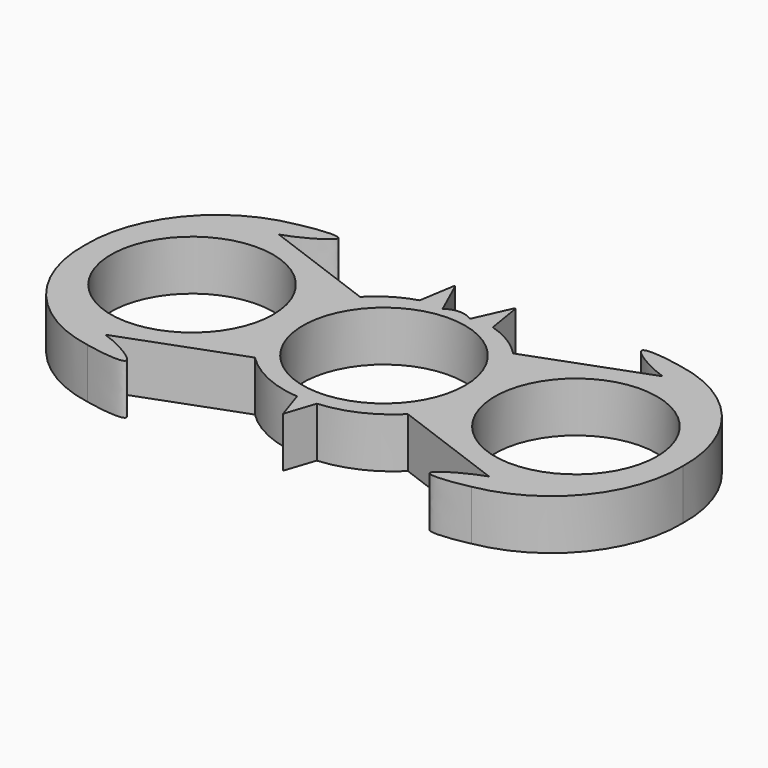
from build123d import *

# Parameters (mm, degrees)
F0_R     = 11.3175
F1_DEPTH = 7


with BuildPart() as f1:
    # F0 (on Top) → F1 (new body)
    with BuildSketch(Plane.XY):
        with BuildLine():
            Line((-4.290395086, 17.5929758698), (-5.0968573363, 12.6047609374))
            ThreePointArc((-5.0968573363, 12.6047609374), (-8.1126471986, 11.2557929743), (-10.6780268252, 9.1740796342))
            Line((-10.6780268252, 9.1740796342), (-26.7856623977, 15.1404356584))
            add(Edge.make_bspline(
                [(-26.7856623977, 18.2235073298), (-24.4614947587, 18.7465790659), (-17.7473041348, 19.5727238501), (-24.8232074873, 15.7483036), (-26.7856623977, 15.1404356584)],
                knots=[0, 0, 0, 0, 0.4812154975, 1, 1, 1, 1], degree=3))
            ThreePointArc((-26.7856623977, 18.2235073298), (-37.6467894522, 11.8899380245), (-41.7342770438, 0))
            ThreePointArc((-41.7342770438, 0), (-37.6467894522, -11.8899380245), (-26.7856623977, -18.2235073298))
            add(Edge.make_bspline(
                [(-26.7856623977, -18.2235073298), (-24.4614947587, -18.7465790659), (-17.7473041348, -19.5727238501), (-24.8232074873, -15.7483036), (-26.7856623977, -15.1404356584)],
                knots=[0, 0, 0, 0, 0.4812154975, 1, 1, 1, 1], degree=3))
            Line((-26.7856623977, -15.1404356584), (-10.6780268252, -9.1740796342))
            ThreePointArc((-10.6780268252, -9.1740796342), (-6.4090636856, -12.1387429064), (-1.3792073587, -13.447872363))
            Line((-1.3792073587, -13.447872363), (0, -17.6072642207))
            Line((0, -17.6072642207), (1.3792073587, -13.447872363))
            ThreePointArc((1.3792073587, -13.447872363), (6.4090636856, -12.1387429064), (10.6780268252, -9.1740796342))
            Line((10.6780268252, -9.1740796342), (26.7856623977, -15.1404356584))
            add(Edge.make_bspline(
                [(26.7856623977, -18.2235073298), (24.4614947587, -18.7465790659), (17.7473041348, -19.5727238501), (24.8232074873, -15.7483036), (26.7856623977, -15.1404356584)],
                knots=[0, 0, 0, 0, 0.4812154975, 1, 1, 1, 1], degree=3))
            ThreePointArc((26.7856623977, -18.2235073298), (37.6467894522, -11.8899380245), (41.7342770438, 0))
            ThreePointArc((41.7342770438, 0), (37.6467894522, 11.8899380245), (26.7856623977, 18.2235073298))
            add(Edge.make_bspline(
                [(26.7856623977, 18.2235073298), (24.4614947587, 18.7465790659), (17.7473041348, 19.5727238501), (24.8232074873, 15.7483036), (26.7856623977, 15.1404356584)],
                knots=[0, 0, 0, 0, 0.4812154975, 1, 1, 1, 1], degree=3))
            Line((26.7856623977, 15.1404356584), (10.6780268252, 9.1740796342))
            ThreePointArc((10.6780268252, 9.1740796342), (8.1126471986, 11.2557929743), (5.0968573363, 12.6047609374))
            Line((5.0968573363, 12.6047609374), (4.290395086, 17.5929758698))
            Line((4.290395086, 17.5929758698), (4.1471831501, 17.5929758698))
            Line((4.1471831501, 17.5929758698), (1.8972994294, 12.6047609374))
            ThreePointArc((1.8972994294, 12.6047609374), (0, 13.2116865157), (-1.8972994294, 12.6047609374))
            Line((-1.8972994294, 12.6047609374), (-4.1471831501, 17.5929758698))
            Line((-4.1471831501, 17.5929758698), (-4.290395086, 17.5929758698))
        make_face()
        with Locations((-26.7856623977, 0)):
            Circle(F0_R, mode=Mode.SUBTRACT)
        Circle(F0_R, mode=Mode.SUBTRACT)
        with Locations((26.7856623977, 0)):
            Circle(F0_R, mode=Mode.SUBTRACT)
    extrude(amount=F1_DEPTH)


solid = f1.part
